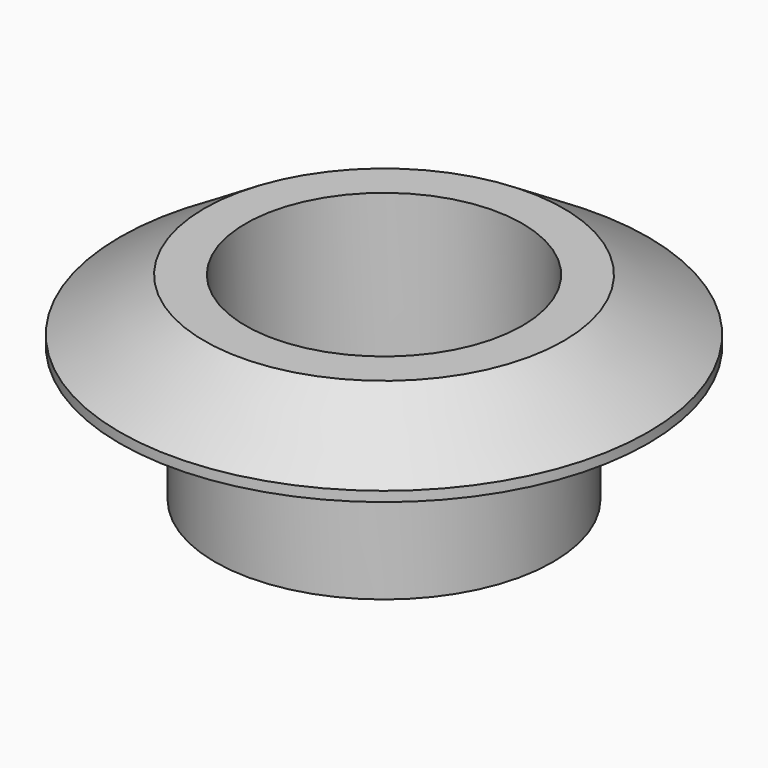
from build123d import *

# Parameters (mm, degrees)
F1_START = 6.4
F0_R     = 12.5
F1_DEPTH = 2.97
F2_R     = 8
F3_DEPTH = 6.4
F4_SIZE2 = 2.5
F4_SIZE  = 4
F5_R     = 4.25
F6_DEPTH = 9.37
F8_START = 2.35
F7_R     = 6.55
F8_DEPTH = 22.65


with BuildPart() as f1:
    # F0 (on Top) → F1 (new body)
    with BuildSketch(Plane.XY.offset(F1_START)):
        Circle(F0_R)
    extrude(amount=F1_DEPTH)

    # F2 (on Top) → F3 (join, through all)
    with BuildSketch(Plane.XY):
        Circle(F2_R)
    extrude(amount=F3_DEPTH)

    # F4
    f4_edges = [f1.edges().sort_by_distance(p)[0] for p in [
        (-12.5, 0, 9.37),
    ]]
    f4_side = f1.faces().sort_by_distance((0, 0, 9.37))[0]
    chamfer(f4_edges, length=F4_SIZE, length2=F4_SIZE2, reference=f4_side)

    # F5 (on Top) → F6 (cut, through all)
    with BuildSketch(Plane.XY):
        Circle(F5_R)
    extrude(amount=F6_DEPTH, mode=Mode.SUBTRACT)

    # F7 (on Top) → F8 (cut)
    with BuildSketch(Plane.XY.offset(F8_START)):
        Circle(F7_R)
    extrude(amount=F8_DEPTH, mode=Mode.SUBTRACT)


solid = f1.part
